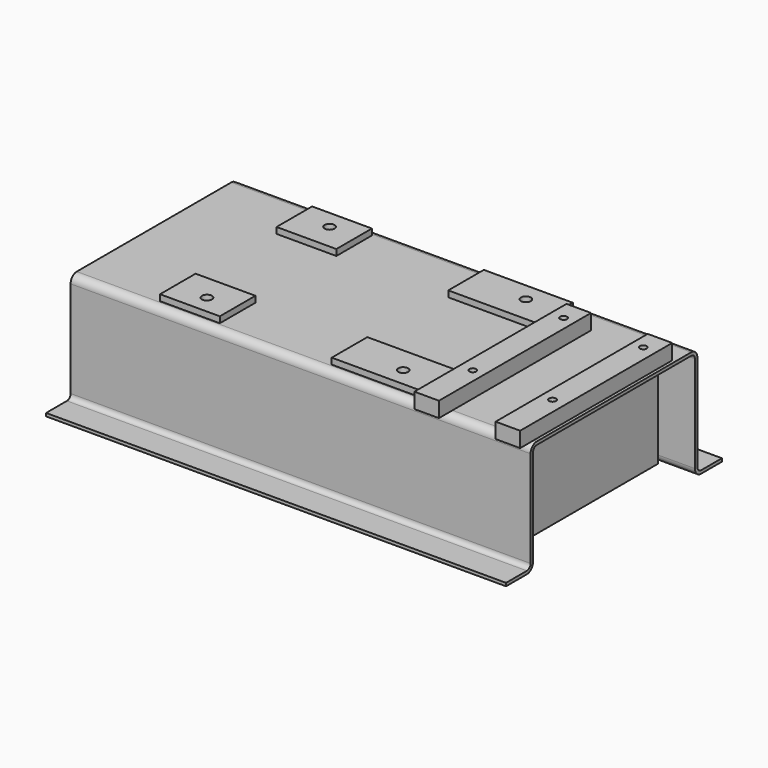
from build123d import *

# Parameters (mm, degrees)
F1_DEPTH = 952.5
F2_W     = 101.6
F2_H     = 787.4
F2_R     = 14.2875
F3_DEPTH = 63.5
F4_W     = 368.3
F4_H     = 184.15
F4_R     = 20.6375
F4_W_2   = 247.65
F5_DEPTH = 25.4
F8_DEPTH = 12.7


with BuildPart() as f1:
    # F0 (on Right) → F1 (new body, symmetric)
    with BuildSketch(Plane.YZ):
        with BuildLine():
            Line((400.05, 231.775), (-400.05, 231.775))
            ThreePointArc((-400.05, 231.775), (-422.5006403027, 222.4756403027), (-431.8, 200.025))
            Line((-431.8, 200.025), (-431.8, -200.025))
            ThreePointArc((-431.8, -200.025), (-437.3796158184, -213.4953841816), (-450.85, -219.075))
            Line((-450.85, -219.075), (-558.8, -219.075))
            Line((-558.8, -219.075), (-558.8, -231.775))
            Line((-558.8, -231.775), (-450.85, -231.775))
            ThreePointArc((-450.85, -231.775), (-428.3993596973, -222.4756403027), (-419.1, -200.025))
            Line((-419.1, -200.025), (-419.1, 200.025))
            ThreePointArc((-419.1, 200.025), (-413.5203841816, 213.4953841816), (-400.05, 219.075))
            Line((-400.05, 219.075), (400.05, 219.075))
            ThreePointArc((400.05, 219.075), (413.5203841816, 213.4953841816), (419.1, 200.025))
            Line((419.1, 200.025), (419.1, -200.025))
            ThreePointArc((419.1, -200.025), (428.3993596973, -222.4756403027), (450.85, -231.775))
            Line((450.85, -231.775), (558.8, -231.775))
            Line((558.8, -231.775), (558.8, -219.075))
            Line((558.8, -219.075), (450.85, -219.075))
            ThreePointArc((450.85, -219.075), (437.3796158184, -213.4953841816), (431.8, -200.025))
            Line((431.8, -200.025), (431.8, 200.025))
            ThreePointArc((431.8, 200.025), (422.5006403027, 222.4756403027), (400.05, 231.775))
        make_face()
    extrude(amount=F1_DEPTH, both=True)

    # F2 (on face) → F3 (join)
    with BuildSketch(Plane.XY.offset(231.775)):
        with Locations((889, -76.2)):
            Rectangle(F2_W, F2_H)
        with Locations((885.952, -234.95)):
            Circle(F2_R, mode=Mode.SUBTRACT)
        with Locations((885.952, 234.95)):
            Circle(F2_R, mode=Mode.SUBTRACT)
        with Locations((552.704, -76.2)):
            Rectangle(F2_W, F2_H)
        with Locations((555.752, -234.95)):
            Circle(F2_R, mode=Mode.SUBTRACT)
        with Locations((555.752, 234.95)):
            Circle(F2_R, mode=Mode.SUBTRACT)
    extrude(amount=F3_DEPTH)

    # F4 (on face) → F5 (join)
    with BuildSketch(Plane.XY.offset(231.775)):
        with Locations((282.702, -301.625)):
            Rectangle(F4_W, F4_H)
        with Locations((333.502, -317.5)):
            Circle(F4_R, mode=Mode.SUBTRACT)
        with Locations((-488.823, -301.625)):
            Rectangle(F4_W_2, F4_H)
        with Locations((-479.298, -317.5)):
            Circle(F4_R, mode=Mode.SUBTRACT)
        with Locations((-488.823, 301.625)):
            Rectangle(F4_W_2, F4_H)
        with Locations((-479.298, 317.5)):
            Circle(F4_R, mode=Mode.SUBTRACT)
        with Locations((282.702, 301.625)):
            Rectangle(F4_W, F4_H)
        with Locations((333.502, 317.5)):
            Circle(F4_R, mode=Mode.SUBTRACT)
    extrude(amount=F5_DEPTH)

    # F7 (on offset) → F8 (join)
    with BuildSketch(Plane.YZ.offset(800.1)):
        Polygon((400.05, 219.075), (-400.05, 219.075), (-419.1, 200.025), (-419.1, -231.775), (419.1, -231.775), (419.1, 200.025), align=None)
    extrude(amount=-F8_DEPTH)


solid = f1.part
